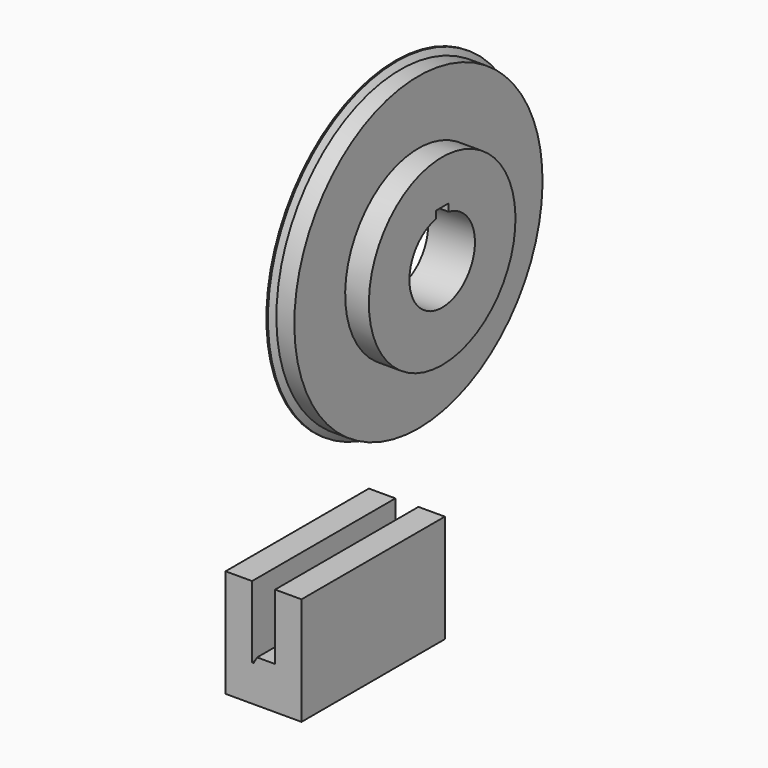
from build123d import *

# Parameters (mm, degrees)
F3_DEPTH = 35
F4_R     = 8
F5_DEPTH = 25
F7_DEPTH = 25


with BuildPart() as f1:
    # F0 (on Front) → F1 (revolve)
    with BuildSketch(Plane.XZ):
        Polygon((0, 29.751923), (0, -1.748077), (0.3, -1.748077), (0.99282, -0.548077), (4.5, -0.548077), (4.5, 11.859911), (9.140844, 11.859911), (9.140844, 29.751923), align=None)
    revolve(axis=Axis((4.570422, 0, 29.751923), (1, 0, 0)))

    # F4 (on face) → F5 (cut)
    with BuildSketch(Plane.YZ.offset(9.140844)):
        with Locations((0, 29.751923)):
            Circle(F4_R)
    extrude(amount=-F5_DEPTH, mode=Mode.SUBTRACT)

    # F6 (on face) → F7 (cut)
    with BuildSketch(Plane.YZ.offset(9.140844)):
        with BuildLine():
            Line((1.53999, 39.046196), (-1.469835, 39.046196))
            Line((-1.469835, 39.046196), (-1.469835, 37.615738))
            ThreePointArc((-1.469835, 37.615738), (0.035715, 37.751844), (1.53999, 37.602301))
            Line((1.53999, 37.602301), (1.53999, 39.046196))
        make_face()
    extrude(amount=-F7_DEPTH, mode=Mode.SUBTRACT)


with BuildPart() as f3:
    # F2 (on Front) → F3 (new body)
    with BuildSketch(Plane.XZ):
        Polygon((4.5, -26.831364), (0.99282, -26.831364), (0.3, -28.031364), (0, -28.031364), (0, -14.031364), (-5.181407, -14.031364), (-5.181407, -35.111859), (9.657942, -35.111859), (9.657942, -14.031364), (4.5, -14.031364), align=None)
    extrude(amount=F3_DEPTH)


solid = Compound([f1.part, f3.part])
